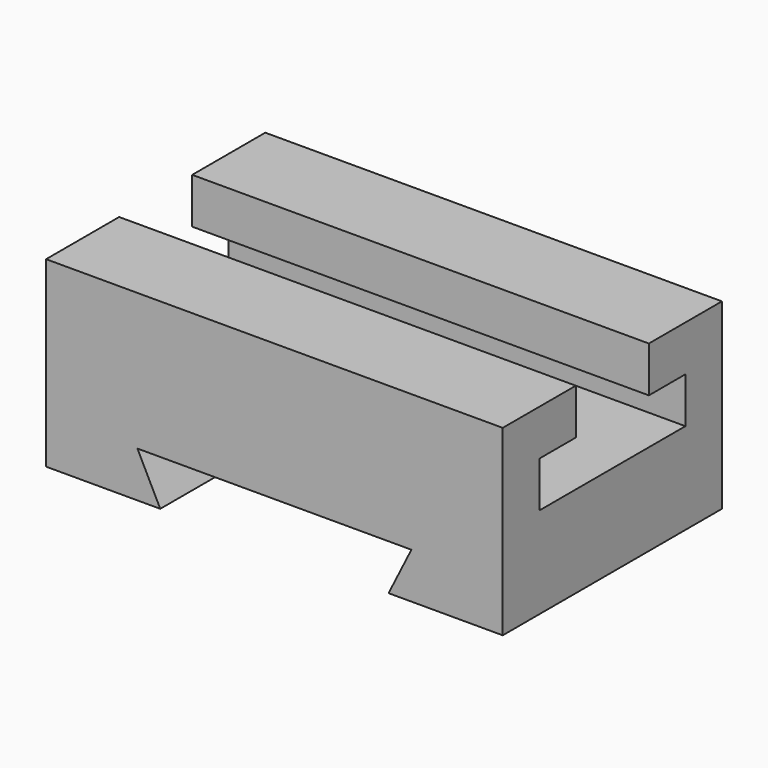
from build123d import *

# Parameters (mm, degrees)
F1_DEPTH = 127
F3_DEPTH = 76.2


with BuildPart() as f1:
    # F0 (on Right) → F1 (new body)
    with BuildSketch(Plane.YZ):
        Polygon((0, 50.8), (0, 0), (76.2, 0), (76.2, 50.8), (50.8, 50.8), (50.8, 38.1), (63.5, 38.1), (63.5, 25.4), (12.7, 25.4), (12.7, 38.1), (25.4, 38.1), (25.4, 50.8), align=None)
    extrude(amount=F1_DEPTH)

    # F2 (on face) → F3 (cut)
    with BuildSketch(Plane.XZ):
        Polygon((31.75, 0), (95.25, 0), (101.6, 12.7), (25.4, 12.7), align=None)
    extrude(amount=-F3_DEPTH, mode=Mode.SUBTRACT)


solid = f1.part
